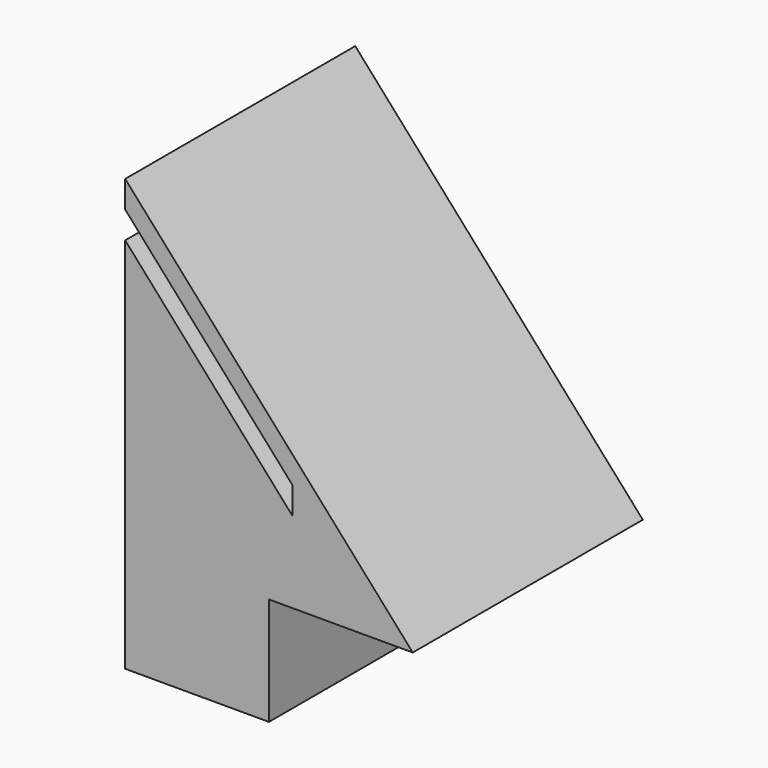
from build123d import *

# Parameters (mm, degrees)
F1_DEPTH = 101.6
F3_DEPTH = 63.5


with BuildPart() as f1:
    # F0 (on Front) → F1 (new body)
    with BuildSketch(Plane.XZ):
        Polygon((-61.3276321992, 97.2424396313), (-61.3276321992, -55.1575603687), (-10.5276321992, -55.1575603687), (-10.5276321992, -17.0575603687), (40.2723678008, -17.0575603687), align=None)
    extrude(amount=F1_DEPTH)

    # F2 (on face) → F3 (cut)
    with BuildSketch(Plane.XZ.offset(101.6)):
        Polygon((-61.3276321992, 87.6844239344), (-61.3276321992, 78.1264082375), (-2.2656869272, 11.6817198065), (-2.2656869272, 21.2397355034), align=None)
    extrude(amount=-F3_DEPTH, mode=Mode.SUBTRACT)


solid = f1.part
